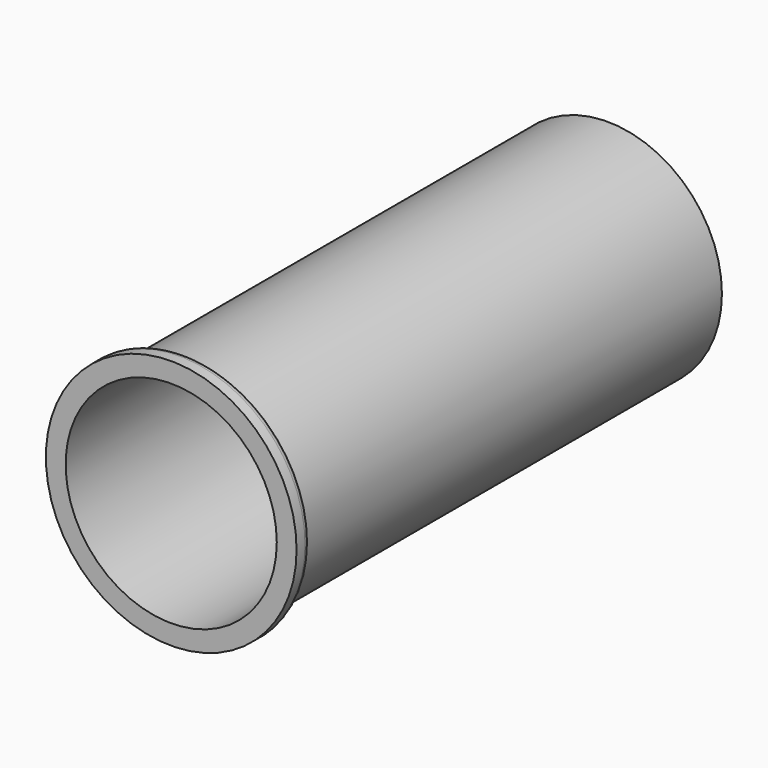
from build123d import *

# Parameters (mm, degrees)
F0_R     = 8.255
F0_R_2   = 7.62
F1_DEPTH = 38.1
F2_R     = 9.04875
F2_R_2   = 8.255
F2_R_3   = 7.62
F3_DEPTH = 1.27
F4_R     = 0.508


with BuildPart() as f1:
    # F0 (on Front) → F1 (new body)
    with BuildSketch(Plane.XZ):
        Circle(F0_R)
        Circle(F0_R_2, mode=Mode.SUBTRACT)
    extrude(amount=F1_DEPTH)

    # F2 (on face) → F3 (join)
    with BuildSketch(Plane.XZ.offset(38.1)):
        Circle(F2_R)
        Circle(F2_R_2, mode=Mode.SUBTRACT)
        Circle(F2_R_2)
        Circle(F2_R_3, mode=Mode.SUBTRACT)
    extrude(amount=F3_DEPTH)

    # F4
    f4_edges = [f1.edges().sort_by_distance(p)[0] for p in [
        (-9.04875, -38.1, 0),
    ]]
    fillet(f4_edges, radius=F4_R)


solid = f1.part
